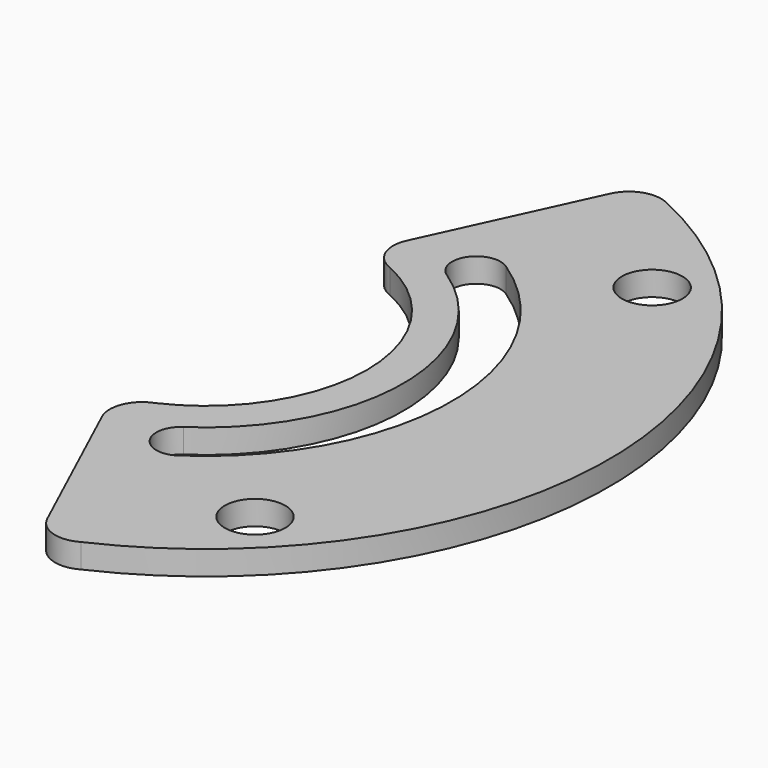
from build123d import *

# Parameters (mm, degrees)
F2_DEPTH = 3
F0_R     = 3.75
F3_DEPTH = 25
F5_DEPTH = 25


with BuildPart() as f2:
    # F1 (on Top) → F2 (new body)
    with BuildSketch(Plane.XY):
        with BuildLine():
            Line((15.300233, 43.614948), (6.077594, 23.609497))
            ThreePointArc((6.077594, 23.609497), (6.020288, 20.390579), (8.353267, 18.172037))
            ThreePointArc((8.353267, 18.172037), (20, 0), (8.353267, -18.172037))
            ThreePointArc((8.353267, -18.172037), (6.020288, -20.390579), (6.077594, -23.609497))
            Line((6.077594, -23.609497), (15.300233, -43.614948))
            ThreePointArc((15.300233, -43.614948), (17.707769, -45.748102), (20.907488, -45.418905))
            ThreePointArc((20.907488, -45.418905), (50, 0), (20.907488, 45.418905))
            ThreePointArc((20.907488, 45.418905), (17.707769, 45.748102), (15.300233, 43.614948))
        make_face()
    extrude(amount=F2_DEPTH)

    # F0 (on Top) → F3 (cut)
    with BuildSketch(Plane.XY):
        with Locations((30.759145, 30.759145)):
            Circle(F0_R)
        with Locations((30.759145, -30.759145)):
            Circle(F0_R)
    extrude(amount=F3_DEPTH, mode=Mode.SUBTRACT)

    # F4 (on face) → F5 (cut)
    with BuildSketch(Plane.XY.offset(3)):
        with BuildLine():
            ThreePointArc((16.917114, 25.402395), (12.757267, 24.568324), (13.591338, 20.408477))
            ThreePointArc((13.591338, 20.408477), (24.52, 0), (13.591338, -20.408477))
            ThreePointArc((13.591338, -20.408477), (12.757267, -24.568324), (16.917114, -25.402395))
            ThreePointArc((16.917114, -25.402395), (30.52, 0), (16.917114, 25.402395))
        make_face()
    extrude(amount=-F5_DEPTH, mode=Mode.SUBTRACT)


solid = f2.part
